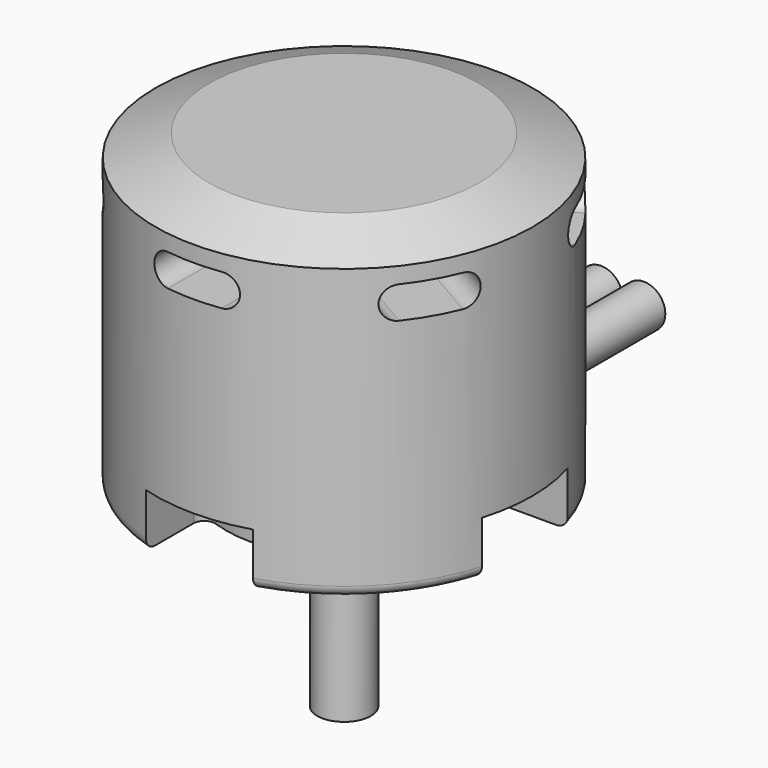
from build123d import *

# Parameters (mm, degrees)
CYLINDER_R              = 2
CYLINDER_DEPTH          = 30
CYLINDER001_R           = 2
CYLINDER001_DEPTH       = 30
CYLINDER002_R           = 2
CYLINDER002_DEPTH       = 30
PAD004_DEPTH            = 5
BODY005_PLACEMENT_ANGLE = 90
BODY004_PLACEMENT_ANGLE = 180
PAD003_DEPTH            = 10
PAD002_DEPTH            = 35
POLARPATTERN_COUNT      = 6
PAD005_DEPTH            = 25
SKETCH001_R             = 17.6
PAD_DEPTH               = 29.1
SKETCH_R                = 1.7
HOLE_DEPTH              = 0.5
HOLE_TIPS_R             = 1.7
SKETCH002_R             = 2.5
PAD001_DEPTH            = 18
CHAMFER_SIZE2           = 5
CHAMFER_SIZE            = 2
FILLET_R                = 1


with BuildPart() as cylindre:
    # Cylinder → Cylinder (new body)
    with BuildSketch(Plane(origin=(4, 0, 4), x_dir=(1, 0, 0), z_dir=(0, 1, 0))):
        Circle(CYLINDER_R)
    extrude(amount=CYLINDER_DEPTH)


with BuildPart() as cylindre001:
    # Cylinder001 → Cylinder001 (new body)
    with BuildSketch(Plane(origin=(0, 0, 4), x_dir=(1, 0, 0), z_dir=(0, 1, 0))):
        Circle(CYLINDER001_R)
    extrude(amount=CYLINDER001_DEPTH)


with BuildPart() as cylindre002:
    # Cylinder002 → Cylinder002 (new body)
    with BuildSketch(Plane(origin=(-4, 0, 4), x_dir=(1, 0, 0), z_dir=(0, 1, 0))):
        Circle(CYLINDER002_R)
    extrude(amount=CYLINDER002_DEPTH)


with BuildPart() as body003:
    # Sketch005 → Pad004 (new body)
    with BuildSketch(Plane.XY):
        with BuildLine():
            ThreePointArc((-10.3708994574, 3.6666666667), (-11, 0), (-10.3708994574, -3.6666666667))
            ThreePointArc((-11.313708499, -5), (-10.4972119181, -4.5773502692), (-10.3708994574, -3.6666666667))
            Line((-16.8748333325, -5), (-11.313708499, -5))
            ThreePointArc((-16.8748333325, 5), (-17.6, 0), (-16.8748333325, -5))
            Line((-16.8748333325, 5), (-11.313708499, 5))
            ThreePointArc((-10.3708994574, 3.6666666667), (-10.4972119181, 4.5773502692), (-11.313708499, 5))
        make_face()
    extrude(amount=PAD004_DEPTH)


with BuildPart() as body005:
    # Body005 base: copy of Body003
    add(body003.part)


with BuildPart() as body005_1:
    # Body005 placement: moved
    add(body005.part.rotate(Axis((0, 0, 0), (0, 0, 1)), BODY005_PLACEMENT_ANGLE))


with BuildPart() as body004:
    # Body004 base: copy of Body003
    add(body003.part)


with BuildPart() as body004_1:
    # Body004 placement: moved
    add(body004.part.rotate(Axis((0, 0, 0), (0, 0, 1)), BODY004_PLACEMENT_ANGLE))


with BuildPart() as body002:
    # Sketch004 → Pad003 (new body)
    with BuildSketch(Plane.XY):
        with BuildLine():
            ThreePointArc((4.68, 12.1283799413), (0, 13), (-4.68, 12.1283799413))
            ThreePointArc((-4.68, 12.1283799413), (-4.9123105626, 11.9447465022), (-5, 11.6619037897))
            Line((-5, 10.5830052443), (-5, 11.6619037897))
            ThreePointArc((-5, 10.5830052443), (-4.7758386422, 10.1659764161), (-4.3043478261, 10.1228745815))
            ThreePointArc((4.3043478261, 10.1228745815), (0, 11), (-4.3043478261, 10.1228745815))
            ThreePointArc((4.3043478261, 10.1228745815), (4.7758386422, 10.1659764161), (5, 10.5830052443))
            Line((5, 10.5830052443), (5, 11.6619037897))
            ThreePointArc((5, 11.6619037897), (4.9123105626, 11.9447465022), (4.68, 12.1283799413))
        make_face()
    extrude(amount=PAD003_DEPTH)


with BuildPart() as body001:
    # Sketch003 → Pad002 (new body)
    with BuildSketch(Plane.XZ):
        with BuildLine():
            ThreePointArc((-2.5, 25.6), (-4, 24.1), (-2.5, 22.6))
            Line((-2.5, 22.6), (2.5, 22.6))
            ThreePointArc((2.5, 22.6), (4, 24.1), (2.5, 25.6))
            Line((-2.5, 25.6), (2.5, 25.6))
        make_face()
    pad002 = extrude(amount=PAD002_DEPTH)

    # PolarPattern: Pad002 ×6 about axis
    polarpattern_axis = Axis((0, 0, 0), (0, 0, 1))
    for i in range(1, POLARPATTERN_COUNT):
        add(pad002.rotate(polarpattern_axis, i * 360 / POLARPATTERN_COUNT))


with BuildPart() as fusion:
    # Sketch006 → Pad005 (new body)
    with BuildSketch(Plane.XZ):
        with BuildLine():
            ThreePointArc((-6, 6), (-8, 4), (-6, 2))
            Line((-6, 2), (6, 2))
            ThreePointArc((6, 2), (8, 4), (6, 6))
            Line((-6, 6), (6, 6))
        make_face()
    extrude(amount=-PAD005_DEPTH)

    # Fusion: union Body005, Body004, Body003, Body002, Body001
    add(body005_1.part)
    add(body004_1.part)
    add(body003.part)
    add(body002.part)
    add(body001.part)


with BuildPart() as cut:
    # Sketch001 → Pad (new body)
    with BuildSketch(Plane.XY):
        Circle(SKETCH001_R)
    extrude(amount=PAD_DEPTH)

    # Sketch → Hole (cut)
    with BuildSketch(Plane(origin=(0, 0, 0), x_dir=(1, 0, 0), z_dir=(0, 0, -1))):
        with Locations((8.8388347648, 8.8388347648)):
            Circle(SKETCH_R)
        with Locations((-8.8388347648, 8.8388347648)):
            Circle(SKETCH_R)
        with Locations((-8.8388347648, -8.8388347648)):
            Circle(SKETCH_R)
        with Locations((8.8388347648, -8.8388347648)):
            Circle(SKETCH_R)
        with Locations((-5.6568542495, 5.6568542495)):
            Circle(SKETCH_R)
        with Locations((-5.6568542495, -5.6568542495)):
            Circle(SKETCH_R)
        with Locations((5.6568542495, -5.6568542495)):
            Circle(SKETCH_R)
        with Locations((5.6568542495, 5.6568542495)):
            Circle(SKETCH_R)
    extrude(amount=-HOLE_DEPTH, mode=Mode.SUBTRACT)

    # Hole tips → Hole tip 1 section 0
    with BuildSketch(Plane(origin=(0, 0, 0.5), x_dir=(1, 0, 0), z_dir=(0, 0, -1)), mode=Mode.PRIVATE) as hole_tip_1_s0:
        with Locations((8.8388347648, 8.8388347648)):
            Circle(HOLE_TIPS_R)
    loft([hole_tip_1_s0.sketch, Vertex(8.8388347648, -8.8388347648, 1.5214630523)], mode=Mode.SUBTRACT)

    # Hole tips → Hole tip 2 section 0
    with BuildSketch(Plane(origin=(0, 0, 0.5), x_dir=(1, 0, 0), z_dir=(0, 0, -1)), mode=Mode.PRIVATE) as hole_tip_2_s0:
        with Locations((-8.8388347648, 8.8388347648)):
            Circle(HOLE_TIPS_R)
    loft([hole_tip_2_s0.sketch, Vertex(-8.8388347648, -8.8388347648, 1.5214630523)], mode=Mode.SUBTRACT)

    # Hole tips → Hole tip 3 section 0
    with BuildSketch(Plane(origin=(0, 0, 0.5), x_dir=(1, 0, 0), z_dir=(0, 0, -1)), mode=Mode.PRIVATE) as hole_tip_3_s0:
        with Locations((-8.8388347648, -8.8388347648)):
            Circle(HOLE_TIPS_R)
    loft([hole_tip_3_s0.sketch, Vertex(-8.8388347648, 8.8388347648, 1.5214630523)], mode=Mode.SUBTRACT)

    # Hole tips → Hole tip 4 section 0
    with BuildSketch(Plane(origin=(0, 0, 0.5), x_dir=(1, 0, 0), z_dir=(0, 0, -1)), mode=Mode.PRIVATE) as hole_tip_4_s0:
        with Locations((8.8388347648, -8.8388347648)):
            Circle(HOLE_TIPS_R)
    loft([hole_tip_4_s0.sketch, Vertex(8.8388347648, 8.8388347648, 1.5214630523)], mode=Mode.SUBTRACT)

    # Hole tips → Hole tip 5 section 0
    with BuildSketch(Plane(origin=(0, 0, 0.5), x_dir=(1, 0, 0), z_dir=(0, 0, -1)), mode=Mode.PRIVATE) as hole_tip_5_s0:
        with Locations((-5.6568542495, 5.6568542495)):
            Circle(HOLE_TIPS_R)
    loft([hole_tip_5_s0.sketch, Vertex(-5.6568542495, -5.6568542495, 1.5214630523)], mode=Mode.SUBTRACT)

    # Hole tips → Hole tip 6 section 0
    with BuildSketch(Plane(origin=(0, 0, 0.5), x_dir=(1, 0, 0), z_dir=(0, 0, -1)), mode=Mode.PRIVATE) as hole_tip_6_s0:
        with Locations((-5.6568542495, -5.6568542495)):
            Circle(HOLE_TIPS_R)
    loft([hole_tip_6_s0.sketch, Vertex(-5.6568542495, 5.6568542495, 1.5214630523)], mode=Mode.SUBTRACT)

    # Hole tips → Hole tip 7 section 0
    with BuildSketch(Plane(origin=(0, 0, 0.5), x_dir=(1, 0, 0), z_dir=(0, 0, -1)), mode=Mode.PRIVATE) as hole_tip_7_s0:
        with Locations((5.6568542495, -5.6568542495)):
            Circle(HOLE_TIPS_R)
    loft([hole_tip_7_s0.sketch, Vertex(5.6568542495, 5.6568542495, 1.5214630523)], mode=Mode.SUBTRACT)

    # Hole tips → Hole tip 8 section 0
    with BuildSketch(Plane(origin=(0, 0, 0.5), x_dir=(1, 0, 0), z_dir=(0, 0, -1)), mode=Mode.PRIVATE) as hole_tip_8_s0:
        with Locations((5.6568542495, 5.6568542495)):
            Circle(HOLE_TIPS_R)
    loft([hole_tip_8_s0.sketch, Vertex(5.6568542495, -5.6568542495, 1.5214630523)], mode=Mode.SUBTRACT)

    # Sketch002 → Pad001 (join)
    with BuildSketch(Plane.XY):
        Circle(SKETCH002_R)
    extrude(amount=-PAD001_DEPTH)

    # Chamfer
    chamfer_edges = [cut.edges().sort_by_distance(p)[0] for p in [
        (-17.6, 0, 29.1),
    ]]
    chamfer_side = cut.faces().sort_by_distance((-17.6, 0, 14.55))[0]
    chamfer(chamfer_edges, length=CHAMFER_SIZE, length2=CHAMFER_SIZE2, reference=chamfer_side)

    # Fillet
    fillet_edges = [cut.edges().sort_by_distance(p)[0] for p in [
        (-17.6, 0, 0),
    ]]
    fillet(fillet_edges, radius=FILLET_R)

    # Cut: cut Fusion
    add(fusion.part, mode=Mode.SUBTRACT)


solid = Compound([cylindre.part, cylindre001.part, cylindre002.part, cut.part])
